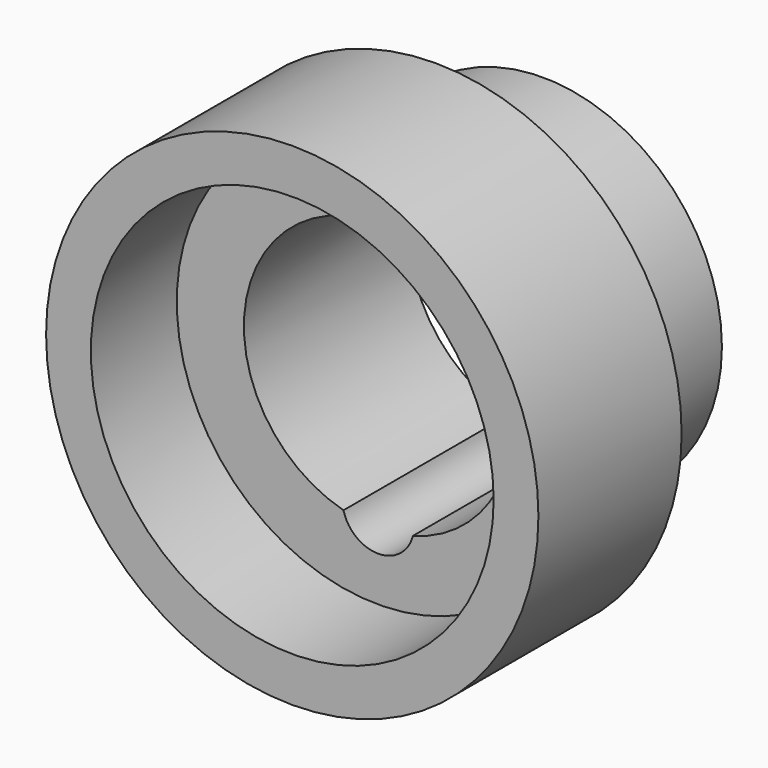
from build123d import *

# Parameters (mm, degrees)
F0_R     = 20
F1_DEPTH = 35
F2_R     = 27.5
F2_R_2   = 20
F3_DEPTH = 20
F4_R     = 22.5
F5_DEPTH = 12


with BuildPart() as f1:
    # F0 (on Front) → F1 (new body)
    with BuildSketch(Plane.XZ):
        Circle(F0_R)
        with BuildLine():
            ThreePointArc((3.875362, 14.490741), (11.898118, 9.134264), (15, 0))
            ThreePointArc((15, 0), (11.898118, -9.134264), (3.875362, -14.490741))
            ThreePointArc((3.875362, -14.490741), (0, -17.5), (-3.875362, -14.490741))
            ThreePointArc((-3.875362, -14.490741), (-15, 0), (-3.875362, 14.490741))
            ThreePointArc((-3.875362, 14.490741), (0, 17.5), (3.875362, 14.490741))
        make_face(mode=Mode.SUBTRACT)
    extrude(amount=F1_DEPTH)

    # F2 (on face) → F3 (join)
    with BuildSketch(Plane.XZ.offset(35)):
        Circle(F2_R)
        Circle(F2_R_2, mode=Mode.SUBTRACT)
    extrude(amount=-F3_DEPTH)

    # F4 (on face) → F5 (cut)
    with BuildSketch(Plane.XZ.offset(35)):
        Circle(F4_R)
    extrude(amount=-F5_DEPTH, mode=Mode.SUBTRACT)


solid = f1.part
